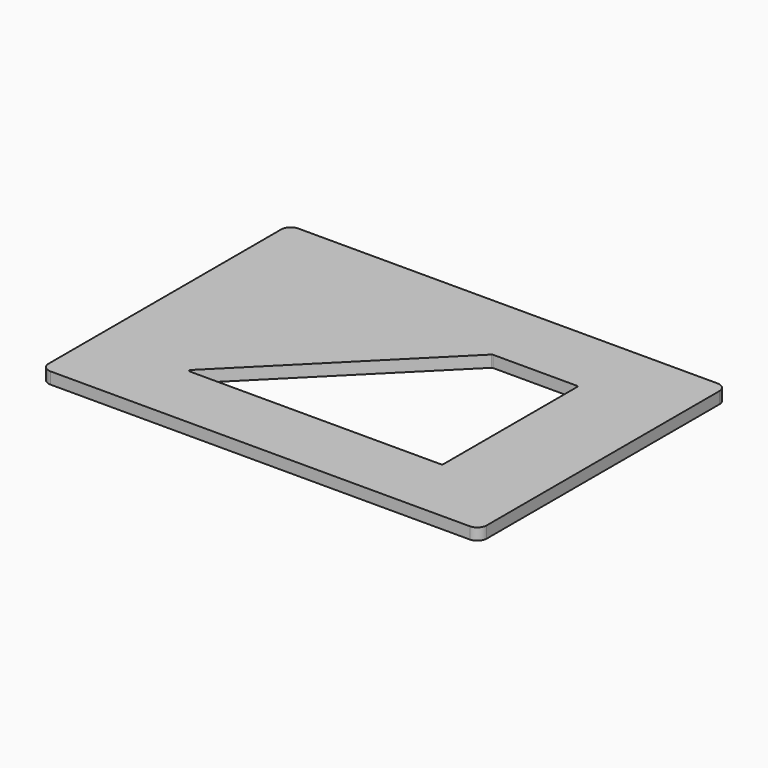
from build123d import *

# Parameters (mm, degrees)
F0_W     = 238.125
F0_H     = 168.275
F1_DEPTH = 6.35
F3_DEPTH = 25.4
F4_R     = 5.08
F5_DEPTH = 6.351
F7_DEPTH = 6.351


with BuildPart() as f1:
    # F0 (on Top) → F1 (new body)
    with BuildSketch(Plane.XY):
        Rectangle(F0_W, F0_H)
    extrude(amount=F1_DEPTH)

    # F2 (on face) → F3 (cut)
    with BuildSketch(Plane.XY.offset(6.35)):
        Polygon((23.3045, 43.8785), (-66.6115, -46.0375), (68.2625, -46.0375), (68.2625, 43.8785), align=None)
    extrude(amount=-F3_DEPTH, mode=Mode.SUBTRACT)

    # F4
    f4_edges = [f1.edges().sort_by_distance(p)[0] for p in [
        (119.0625, -84.1375, 3.175),
        (119.0625, 84.1375, 3.175),
        (-119.0625, -84.1375, 3.175),
        (-119.0625, 84.1375, 3.175),
    ]]
    fillet(f4_edges, radius=F4_R)

    # F2 (on face) → F5 (cut, through all)
    with BuildSketch(Plane.XY.offset(6.35)):
        Polygon((23.3045, 43.8785), (-66.6115, -46.0375), (68.2625, -46.0375), (68.2625, 43.8785), align=None)
    extrude(amount=-F5_DEPTH, mode=Mode.SUBTRACT)

    # F6 (on face) → F7 (cut, through all)
    with BuildSketch(Plane.XY.offset(6.35)):
        with BuildLine():
            Line((68.7451, 45.1485), (23.104601, 45.1485))
            ThreePointArc((23.104601, 45.1485), (22.803276, 45.088563), (22.547825, 44.917876))
            Line((22.547825, 44.917876), (-68.333375, -45.963324))
            ThreePointArc((-68.333375, -45.963324), (-68.504062, -46.821425), (-67.776599, -47.3075))
            Line((-67.776599, -47.3075), (68.7451, -47.3075))
            ThreePointArc((68.7451, -47.3075), (69.301876, -47.076876), (69.5325, -46.5201))
            Line((69.5325, -46.5201), (69.5325, 44.3611))
            ThreePointArc((69.5325, 44.3611), (69.301876, 44.917876), (68.7451, 45.1485))
        make_face()
    extrude(amount=-F7_DEPTH, mode=Mode.SUBTRACT)


solid = f1.part
